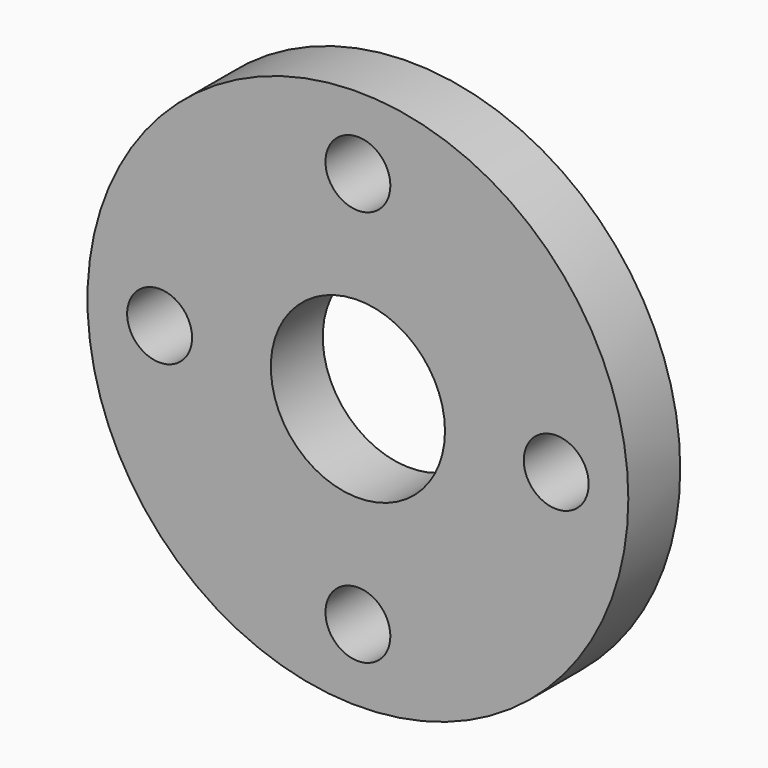
from build123d import *

# Parameters (mm, degrees)
F0_R     = 75
F0_R_2   = 9
F0_R_3   = 24.15
F1_DEPTH = 18


with BuildPart() as f1:
    # F0 (on Front) → F1 (new body)
    with BuildSketch(Plane.XZ):
        Circle(F0_R)
        with Locations((0, -55)):
            Circle(F0_R_2, mode=Mode.SUBTRACT)
        with Locations((-55, 0)):
            Circle(F0_R_2, mode=Mode.SUBTRACT)
        Circle(F0_R_3, mode=Mode.SUBTRACT)
        with Locations((55, 0)):
            Circle(F0_R_2, mode=Mode.SUBTRACT)
        with Locations((0, 55)):
            Circle(F0_R_2, mode=Mode.SUBTRACT)
    extrude(amount=F1_DEPTH)


with BuildPart() as f2_1:
    # F2: copy of F1
    add(f1.part)


solid = Compound([f1.part, f2_1.part])
